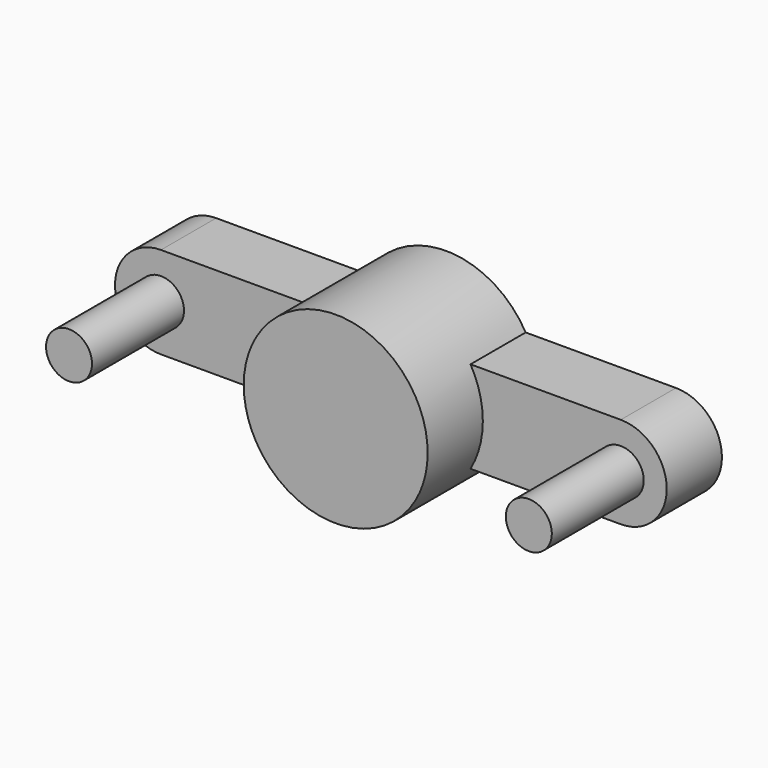
from build123d import *

# Parameters (mm, degrees)
F0_R     = 2.54
F1_DEPTH = 7.62
F2_DEPTH = 15.24
F3_DEPTH = 20.32


with BuildPart() as f1:
    # F0 (on Front) → F1 (new body)
    with BuildSketch(Plane.XZ):
        with BuildLine():
            ThreePointArc((-8.7988181024, -5.08), (-9.8138063951, -2.6296014982), (-10.16, 0))
            ThreePointArc((-10.16, 0), (-9.8138063951, 2.6296014982), (-8.7988181024, 5.08))
            Line((-8.7988181024, 5.08), (-25.4, 5.08))
            ThreePointArc((-25.4, 5.08), (-30.48, 0), (-25.4, -5.08))
            Line((-25.4, -5.08), (-8.7988181024, -5.08))
        make_face()
        with Locations((-25.4, 0)):
            Circle(F0_R, mode=Mode.SUBTRACT)
        with Locations((-25.4, 0)):
            Circle(F0_R)
        with BuildLine():
            Line((-10.16, 0), (10.16, 0))
            ThreePointArc((10.16, 0), (9.8138063951, 2.6296014982), (8.7988181025, 5.08))
            Line((8.7988181025, 5.08), (-8.7988181024, 5.08))
            ThreePointArc((-8.7988181024, 5.08), (-9.8138063951, 2.6296014982), (-10.16, 0))
        make_face()
        with BuildLine():
            ThreePointArc((8.7988181025, -5.08), (9.8138063951, -2.6296014982), (10.16, 0))
            Line((10.16, 0), (-10.16, 0))
            ThreePointArc((-10.16, 0), (-9.8138063951, -2.6296014982), (-8.7988181024, -5.08))
            Line((-8.7988181024, -5.08), (8.7988181025, -5.08))
        make_face()
        with BuildLine():
            ThreePointArc((8.7988181025, 5.08), (9.8138063951, 2.6296014982), (10.16, 0))
            ThreePointArc((10.16, 0), (9.8138063951, -2.6296014982), (8.7988181025, -5.08))
            Line((8.7988181025, -5.08), (25.4, -5.08))
            ThreePointArc((25.4, -5.08), (30.48, 0), (25.4, 5.08))
            Line((25.4, 5.08), (8.7988181025, 5.08))
        make_face()
        with BuildLine():
            ThreePointArc((27.94, 0), (25.4, -2.54), (22.86, 0))
            ThreePointArc((22.86, 0), (25.4, 2.54), (27.94, 0))
        make_face(mode=Mode.SUBTRACT)
        with BuildLine():
            ThreePointArc((27.94, 0), (25.4, 2.54), (22.86, 0))
            ThreePointArc((22.86, 0), (25.4, -2.54), (27.94, 0))
        make_face()
        with BuildLine():
            Line((-8.7988181024, 5.08), (8.7988181025, 5.08))
            ThreePointArc((8.7988181025, 5.08), (0, 10.16), (-8.7988181024, 5.08))
        make_face()
        with BuildLine():
            ThreePointArc((-8.7988181024, -5.08), (0, -10.16), (8.7988181025, -5.08))
            Line((8.7988181025, -5.08), (-8.7988181024, -5.08))
        make_face()
    extrude(amount=F1_DEPTH)

    # F0 (on Front) → F2 (join)
    with BuildSketch(Plane.XZ):
        with BuildLine():
            Line((-8.7988181024, 5.08), (8.7988181025, 5.08))
            ThreePointArc((8.7988181025, 5.08), (0, 10.16), (-8.7988181024, 5.08))
        make_face()
        with BuildLine():
            Line((-10.16, 0), (10.16, 0))
            ThreePointArc((10.16, 0), (9.8138063951, 2.6296014982), (8.7988181025, 5.08))
            Line((8.7988181025, 5.08), (-8.7988181024, 5.08))
            ThreePointArc((-8.7988181024, 5.08), (-9.8138063951, 2.6296014982), (-10.16, 0))
        make_face()
        with BuildLine():
            ThreePointArc((8.7988181025, -5.08), (9.8138063951, -2.6296014982), (10.16, 0))
            Line((10.16, 0), (-10.16, 0))
            ThreePointArc((-10.16, 0), (-9.8138063951, -2.6296014982), (-8.7988181024, -5.08))
            Line((-8.7988181024, -5.08), (8.7988181025, -5.08))
        make_face()
        with BuildLine():
            ThreePointArc((-8.7988181024, -5.08), (0, -10.16), (8.7988181025, -5.08))
            Line((8.7988181025, -5.08), (-8.7988181024, -5.08))
        make_face()
    extrude(amount=F2_DEPTH)

    # F0 (on Front) → F3 (join)
    with BuildSketch(Plane.XZ):
        with Locations((-25.4, 0)):
            Circle(F0_R)
        with BuildLine():
            ThreePointArc((27.94, 0), (25.4, 2.54), (22.86, 0))
            ThreePointArc((22.86, 0), (25.4, -2.54), (27.94, 0))
        make_face()
    extrude(amount=F3_DEPTH)


solid = f1.part
